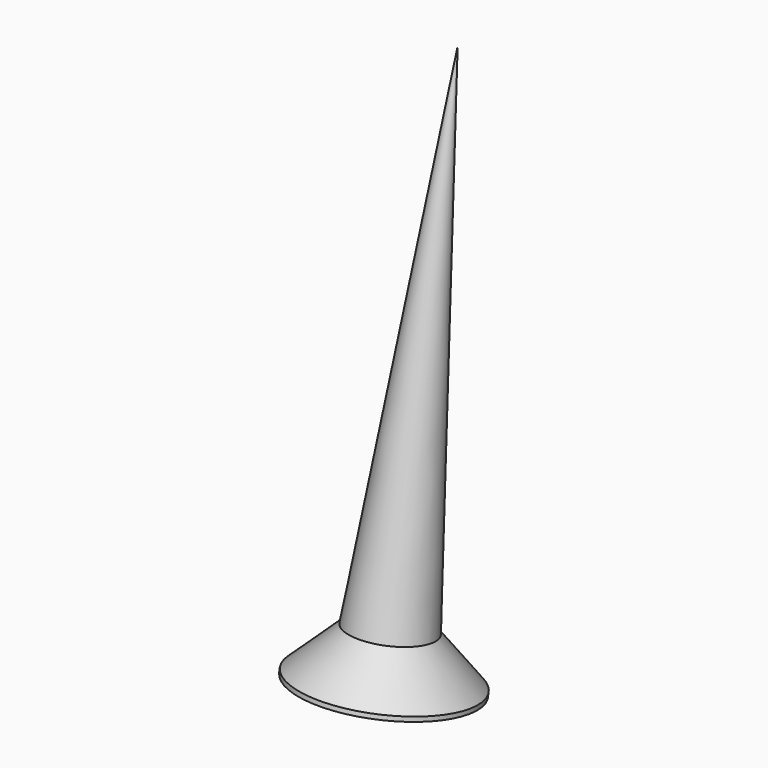
from build123d import *

# Parameters (mm, degrees)
POCKET004_DEPTH         = 0.2
POLARPATTERN001_COUNT   = 2
POLARPATTERN001_ANGLE   = 90
BODY007_ROLL_ANGLE      = -170
BODY007_PLACEMENT_ANGLE = 180


with BuildPart() as part:
    # Sketch022 → Revolution001 (revolve)
    with BuildSketch(Plane.XZ):
        Polygon((0, 0), (0, -12), (0.9, -1.05), (1.85, -0.1), (1.85, 0), align=None)
    revolve(axis=Axis((0, 0, 0), (0, 0, 1)))

    # Sketch023 → Pocket004 (cut, symmetric)
    with BuildSketch(Plane.XZ):
        Polygon((-1.15, 0), (0, -1.15), (1.15, 0), align=None)
    pocket004 = extrude(amount=POCKET004_DEPTH, both=True, mode=Mode.SUBTRACT)

    # PolarPattern001: Pocket004 ×2 about axis
    polarpattern001_axis = Axis((0, 0, 0), (0, 0, 1))
    for i in range(1, POLARPATTERN001_COUNT):
        add(pocket004.rotate(polarpattern001_axis, i * POLARPATTERN001_ANGLE / (POLARPATTERN001_COUNT - 1)), mode=Mode.SUBTRACT)


with BuildPart() as part_1:
    # Body007 roll: moved
    add(part.part.rotate(Axis((0, 0, 0), (1, 0, 0)), BODY007_ROLL_ANGLE))


with BuildPart() as part_2:
    # Body007 placement: moved
    add(part_1.part.moved(Location((-24, -13, 1))).rotate(Axis((-24, -13, 1), (0, 0, 1)), BODY007_PLACEMENT_ANGLE))


solid = part_2.part
